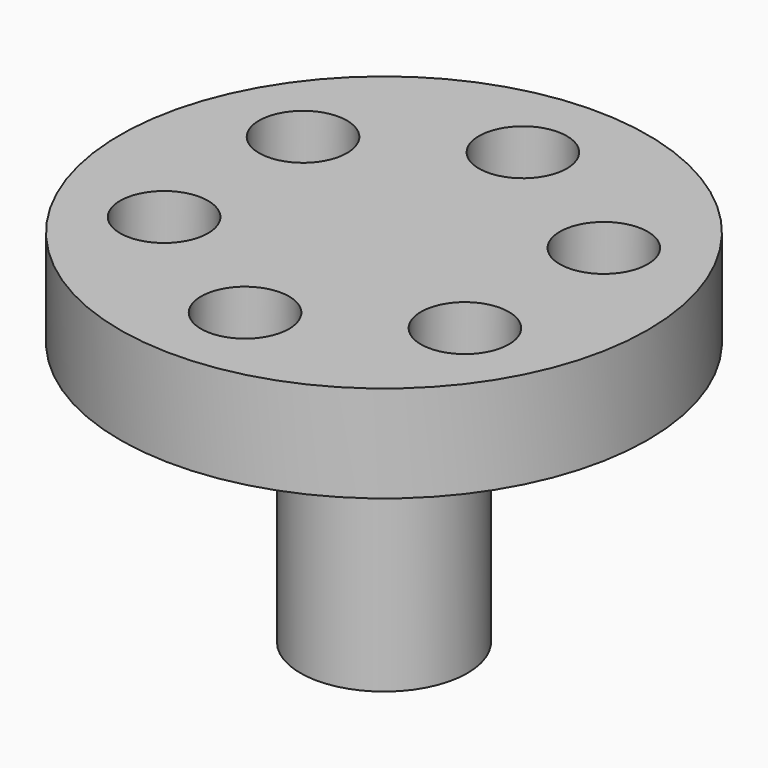
from build123d import *

# Parameters (mm, degrees)
F0_R     = 2.413
F1_DEPTH = 7.62
F2_R     = 7.62
F2_R_2   = 1.27
F3_DEPTH = 2.794


with BuildPart() as f1:
    # F0 (on Top) → F1 (new body)
    with BuildSketch(Plane.XY):
        Circle(F0_R)
    extrude(amount=F1_DEPTH)

    # F2 (on face) → F3 (join)
    with BuildSketch(Plane.XY.offset(7.62)):
        Circle(F2_R)
        with Locations((-4.341766, -2.50672)):
            Circle(F2_R_2, mode=Mode.SUBTRACT)
        with Locations((0, -5.013439)):
            Circle(F2_R_2, mode=Mode.SUBTRACT)
        with Locations((4.341766, -2.50672)):
            Circle(F2_R_2, mode=Mode.SUBTRACT)
        with Locations((-4.341766, 2.50672)):
            Circle(F2_R_2, mode=Mode.SUBTRACT)
        with Locations((4.341766, 2.50672)):
            Circle(F2_R_2, mode=Mode.SUBTRACT)
        with Locations((0, 5.013439)):
            Circle(F2_R_2, mode=Mode.SUBTRACT)
    extrude(amount=F3_DEPTH)


solid = f1.part
